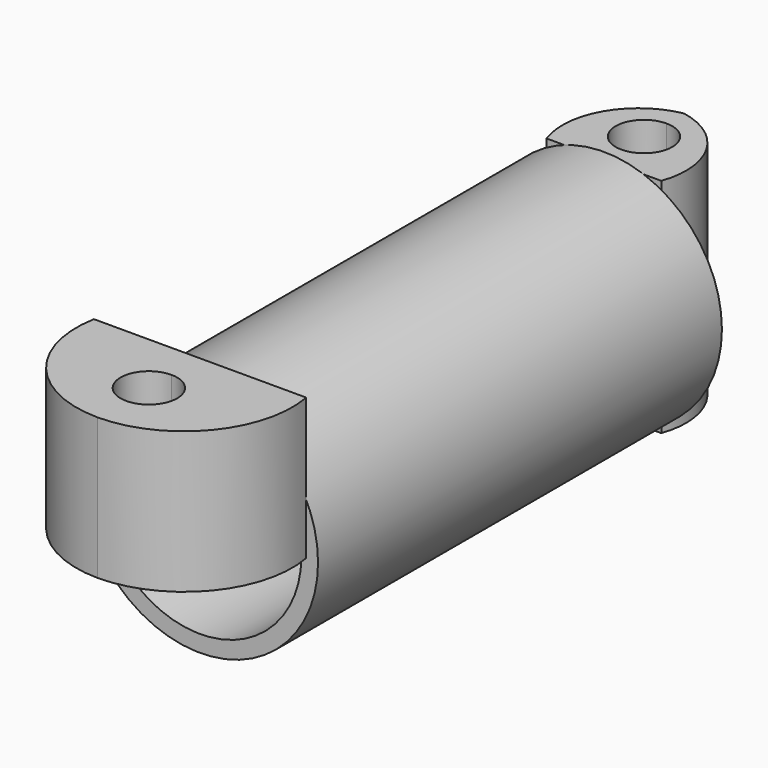
from build123d import *

# Parameters (mm, degrees)
F0_R      = 14.841077
F0_R_2    = 12.746057
F1_DEPTH  = 63.5
F3_DEPTH  = 13.97
F3_FACE_R = 3.556
F4_DEPTH  = 13.97
F5_DEPTH  = 17.78


with BuildPart() as f1:
    # F0 (on Front) → F1 (new body)
    with BuildSketch(Plane.XZ):
        Circle(F0_R)
        Circle(F0_R_2, mode=Mode.SUBTRACT)
    extrude(amount=F1_DEPTH)


with BuildPart() as f3:
    # F2 (on Top) → F3 (new body)
    with BuildSketch(Plane.XY):
        with BuildLine():
            Line((0, 9.850863), (0, 12.589726))
            ThreePointArc((0, 12.589726), (-6.509824, 7.95799), (-7.217772, 0))
            Line((-7.217772, 0), (0, 0))
            Line((0, 0), (0, 2.738863))
            ThreePointArc((0, 2.738863), (-3.556, 6.294863), (0, 9.850863))
        make_face()
        with BuildLine():
            ThreePointArc((7.217772, 0), (6.509824, 7.95799), (0, 12.589726))
            Line((0, 12.589726), (0, 9.850863))
            ThreePointArc((0, 9.850863), (2.514472, 8.809335), (3.556, 6.294863))
            ThreePointArc((3.556, 6.294863), (2.514472, 3.780391), (0, 2.738863))
            Line((0, 2.738863), (0, 0))
            Line((0, 0), (7.217772, 0))
        make_face()
    extrude(amount=F3_DEPTH)


with BuildPart() as f4:
    # F3_face (on face) → F4 (new body)
    with BuildSketch(Plane(origin=(0, 5.070531, 0), x_dir=(1, 0, 0), z_dir=(0, 0, -1))):
        with BuildLine():
            ThreePointArc((-7.217772, 5.070531), (-6.509824, -2.887459), (0, -7.519195))
            ThreePointArc((0, -7.519195), (6.509824, -2.887459), (7.217772, 5.070531))
            Line((7.217772, 5.070531), (-7.217772, 5.070531))
        make_face()
        with Locations((0, -1.224332)):
            Circle(F3_FACE_R, mode=Mode.SUBTRACT)
    extrude(amount=F4_DEPTH)


with BuildPart() as f5:
    # F2 (on Top) → F5 (new body)
    with BuildSketch(Plane.XY):
        with BuildLine():
            Line((13.351776, -63.5), (0, -63.5))
            Line((0, -63.5), (0, -67.99334))
            ThreePointArc((0, -67.99334), (2.514472, -69.034868), (3.556, -71.54934))
            ThreePointArc((3.556, -71.54934), (2.514472, -74.063812), (0, -75.10534))
            Line((0, -75.10534), (0, -79.59868))
            ThreePointArc((0, -79.59868), (10.435292, -74.66728), (13.351776, -63.5))
        make_face()
        with BuildLine():
            Line((0, -67.99334), (0, -63.5))
            Line((0, -63.5), (-13.351776, -63.5))
            ThreePointArc((-13.351776, -63.5), (-10.435292, -74.66728), (0, -79.59868))
            Line((0, -79.59868), (0, -75.10534))
            ThreePointArc((0, -75.10534), (-3.556, -71.54934), (0, -67.99334))
        make_face()
    extrude(amount=F5_DEPTH)


solid = Compound([f1.part, f3.part, f4.part, f5.part])
